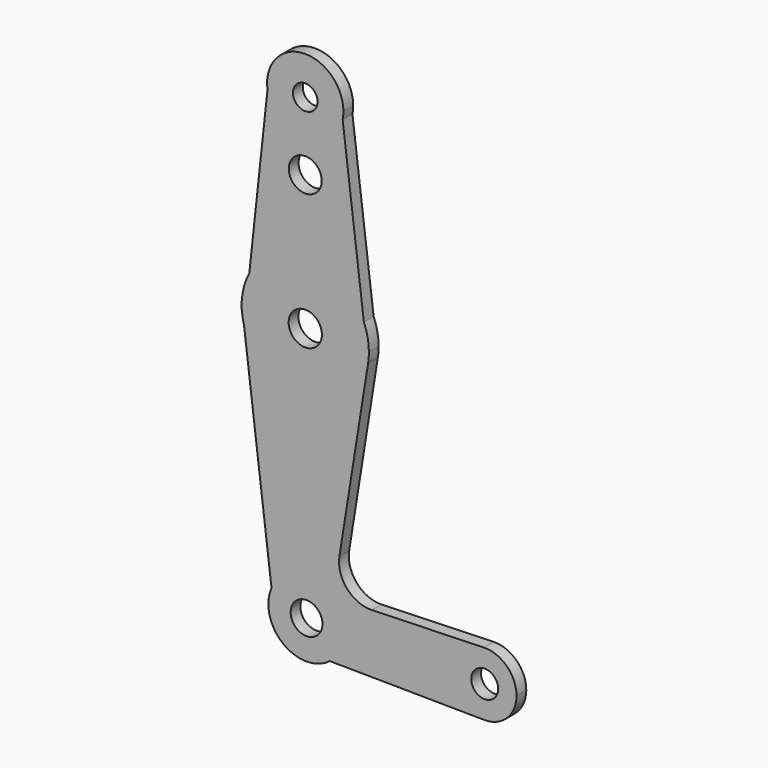
from build123d import *

# Parameters (mm, degrees)
F0_R     = 3.0678148128
F0_R_2   = 4.1047794864
F0_R_3   = 4.1484481905
F0_R_4   = 3.9651627148
F0_R_5   = 3.3606099615
F1_DEPTH = 3.048


with BuildPart() as f1:
    # F0 (on Front) → F1 (new body)
    with BuildSketch(Plane.XZ):
        with BuildLine():
            ThreePointArc((-22.0952880495, 63.3573697132), (-21.9525667016, 64.3002107009), (-21.9048334464, 65.252597202))
            ThreePointArc((-21.9048334464, 65.252597202), (-32.1286708221, 74.7519261953), (-40.8522877923, 63.8586893501))
            ThreePointArc((-40.8522877923, 63.8586893501), (-31.6843179064, 55.7309974069), (-22.0952880495, 63.3573697132))
        make_face()
        with Locations((-31.4298334464, 65.252597202)):
            Circle(F0_R, mode=Mode.SUBTRACT)
        with BuildLine():
            Line((-22.8988258818, -32.7729009955), (-15.7421907695, 12.0208298938))
            ThreePointArc((-15.7421907695, 12.0208298938), (-30.4346030163, -1.3911757511), (-46.6898601111, 10.076844559))
            Line((-46.6898601111, 10.076844559), (-39.8511464985, -45.2663396961))
            ThreePointArc((-39.8511464985, -45.2663396961), (-29.178163265, -39.7201099719), (-21.5837677135, -49.047402798))
            ThreePointArc((-21.5837677135, -49.047402798), (-22.5644659866, -53.2569791424), (-25.3046145376, -56.599715749))
            Line((-25.3046145376, -56.599715749), (13.2620412226, -56.9845077504))
            ThreePointArc((13.2620412226, -56.9845077504), (5.404163013, -49.1300925666), (13.0966960788, -41.1136704926))
            Line((13.0966960788, -41.1136704926), (-14.8032647914, -41.9736126187))
            ThreePointArc((-14.8032647914, -41.9736126187), (-21.0168575298, -39.2789208077), (-22.8988258818, -32.7729009955))
        make_face()
        with BuildLine():
            ThreePointArc((-22.0952880495, 63.3573697132), (-31.6843179064, 55.7309974069), (-40.8522877923, 63.8586893501))
            Line((-40.8522877923, 63.8586893501), (-45.3956386903, 22.0005710287))
            ThreePointArc((-45.3956386903, 22.0005710287), (-30.6725126501, 30.309522825), (-16.808258716, 20.6352485268))
            Line((-16.808258716, 20.6352485268), (-22.0952880495, 63.3573697132))
        make_face()
        with Locations((-31.4298334464, 48.2255369425)):
            Circle(F0_R_2, mode=Mode.SUBTRACT)
        with BuildLine():
            Line((-46.6898601111, 10.076844559), (-45.3956386903, 22.0005710287))
            ThreePointArc((-45.3956386903, 22.0005710287), (-47.2121376482, 16.1656351704), (-46.6898601111, 10.076844559))
        make_face()
        with BuildLine():
            ThreePointArc((-16.808258716, 20.6352485268), (-30.6725126501, 30.309522825), (-45.3956386903, 22.0005710287))
            Line((-45.3956386903, 22.0005710287), (-46.6898601111, 10.076844559))
            ThreePointArc((-46.6898601111, 10.076844559), (-30.4346030163, -1.3911757511), (-15.7421907695, 12.0208298938))
            Line((-15.7421907695, 12.0208298938), (-16.808258716, 20.6352485268))
        make_face()
        with Locations((-31.4298334464, 14.452597202)):
            Circle(F0_R_3, mode=Mode.SUBTRACT)
        with BuildLine():
            ThreePointArc((-15.5548334464, 14.452597202), (-15.8713450261, 17.6068107454), (-16.808258716, 20.6352485268))
            Line((-16.808258716, 20.6352485268), (-15.7421907695, 12.0208298938))
            ThreePointArc((-15.7421907695, 12.0208298938), (-15.6017420817, 13.2331101164), (-15.5548334464, 14.452597202))
        make_face()
        with BuildLine():
            ThreePointArc((-21.5837677135, -49.047402798), (-29.178163265, -39.7201099719), (-39.8511464985, -45.2663396961))
            ThreePointArc((-39.8511464985, -45.2663396961), (-36.962795867, -56.5611222084), (-25.3046145376, -56.599715749))
            ThreePointArc((-25.3046145376, -56.599715749), (-22.5644659866, -53.2569791424), (-21.5837677135, -49.047402798))
        make_face()
        with Locations((-31.1087677135, -49.047402798)):
            Circle(F0_R_4, mode=Mode.SUBTRACT)
        with BuildLine():
            ThreePointArc((13.0966960788, -41.1136704926), (5.404163013, -49.1300925666), (13.2620412226, -56.9845077504))
            ThreePointArc((13.2620412226, -56.9845077504), (18.925823909, -54.6879916555), (21.2787322865, -49.047402798))
            ThreePointArc((21.2787322865, -49.047402798), (18.8667594152, -43.3489419356), (13.0966960788, -41.1136704926))
        make_face()
        with Locations((13.3412322865, -49.047402798)):
            Circle(F0_R_5, mode=Mode.SUBTRACT)
    extrude(amount=F1_DEPTH)


solid = f1.part
